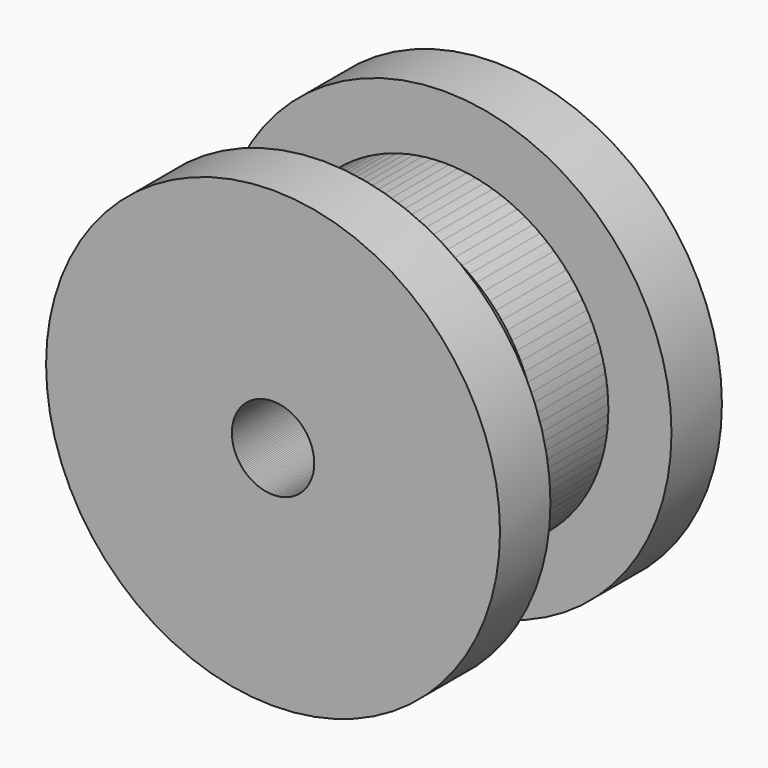
from build123d import *

# Parameters (mm, degrees)
F2_COUNT = 4


with BuildPart() as f1:
    # F0 (on Top) → F1 (revolve)
    with BuildSketch(Plane.XY):
        Polygon((16.34757, 110), (16.34757, 0), (90, 0), (90, 25), (55, 25), (55, 50), (65, 50), (65, 85), (90, 85), (90, 110), align=None)
    revolve(axis=Axis((0, 55, 0), (0, -1, 0)))


with BuildPart() as f2_1:
    # F2: instance of F1
    add(f1.part.rotate(Axis((0, 110, 0), (0, -1, 0)), 1 * 360 / F2_COUNT))


with BuildPart() as f2_2:
    # F2: instance of F1
    add(f1.part.rotate(Axis((0, 110, 0), (0, -1, 0)), 2 * 360 / F2_COUNT))


with BuildPart() as f2_3:
    # F2: instance of F1
    add(f1.part.rotate(Axis((0, 110, 0), (0, -1, 0)), 3 * 360 / F2_COUNT))


solid = Compound([f1.part, f2_1.part, f2_2.part, f2_3.part])
